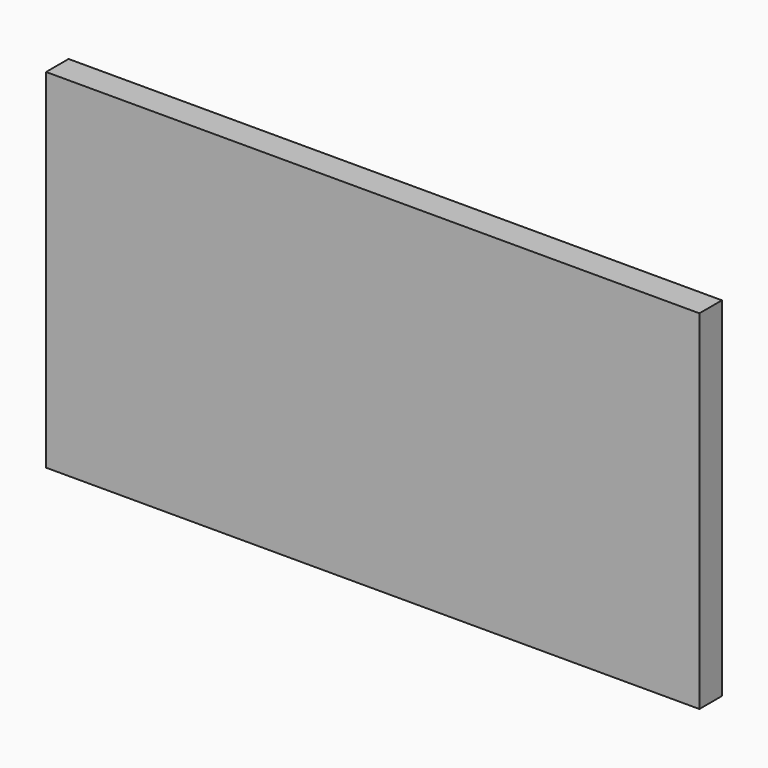
from build123d import *

# Parameters (mm, degrees)
F0_W     = 105.3466051817
F0_H     = 96.3407531381
F1_DEPTH = 254
F2_DEPTH = 254
F3_DEPTH = 508
F4_W     = 254
F4_H     = 350.3407531381
F5_DEPTH = 762
F6_DEPTH = 254
F7_DEPTH = 584.2
F8_DEPTH = 3937
F9_DEPTH = 2540


with BuildPart() as f1:
    # F0 (on Front) → F1 (new body)
    with BuildSketch(Plane.XZ):
        with Locations((-216.6063860059, -119.512733072)):
            Rectangle(F0_W, F0_H)
    extrude(amount=F1_DEPTH)

    # F2 (add): a face of the model
    f2_faces = [f1.faces().sort_by_distance(p)[0] for p in [
        (-216.6063860059, -127, -71.342356503),
    ]]
    extrude(f2_faces, amount=F2_DEPTH)

    # F3 (add): a face of the model
    f3_faces = [f1.faces().sort_by_distance(p)[0] for p in [
        (-163.933083415, -127, 7.487266928),
    ]]
    extrude(f3_faces, amount=F3_DEPTH)

    # F4 (on face) → F5 (join)
    with BuildSketch(Plane(origin=(-269.2796885967, 0, 0), x_dir=(0, -1, 0), z_dir=(-1, 0, 0))):
        with Locations((127, 7.487266928)):
            Rectangle(F4_W, F4_H)
    extrude(amount=F5_DEPTH)

    # F6 (add): a face of the model
    f6_faces = [f1.faces().sort_by_distance(p)[0] for p in [
        (-343.6063860059, -127, -167.6831096411),
    ]]
    extrude(f6_faces, amount=F6_DEPTH)

    # F7 (add): a face of the model
    f7_faces = [f1.faces().sort_by_distance(p)[0] for p in [
        (-1031.2796885967, -127, -119.512733072),
    ]]
    extrude(f7_faces, amount=F7_DEPTH)

    # F8 (add): a face of the model
    f8_faces = [f1.faces().sort_by_distance(p)[0] for p in [
        (-1615.4796885967, -127, -119.512733072),
    ]]
    extrude(f8_faces, amount=F8_DEPTH)

    # F9 (add): a face of the model
    f9_faces = [f1.faces().sort_by_distance(p)[0] for p in [
        (-2604.2063860059, -127, 182.657643497),
    ]]
    extrude(f9_faces, amount=F9_DEPTH)


solid = f1.part
